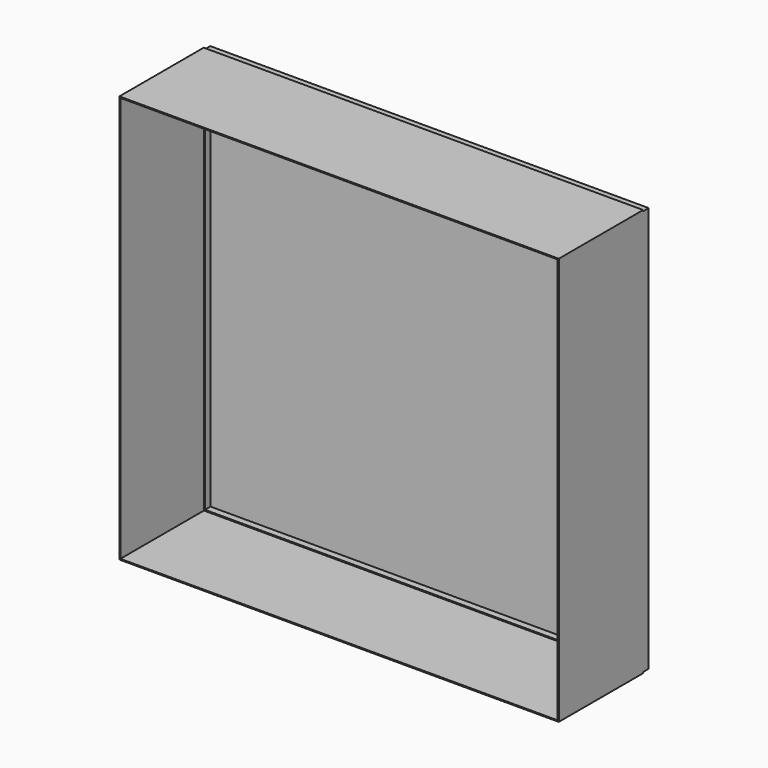
from build123d import *

# Parameters (mm, degrees)
F2_DEPTH = 6
F3_W     = 2494
F3_H     = 2308
F4_DEPTH = 45
F5_DEPTH = 600
F6_T     = -6


with BuildPart() as f2:
    # F0 (on Front) → F2 (new body)
    with BuildSketch(Plane.XZ):
        Polygon((-1250, 1160), (-1250, 677.0832676902), (-1250, -677.0832676902), (-1250, -1160), (1250, -1160), (1250, -677.0832676902), (1250, 677.0832676902), (1250, 1160), align=None)
    extrude(amount=F2_DEPTH)

    # F3 (on face) → F4 (join)
    with BuildSketch(Plane.XZ.offset(6)):
        with Locations((3, 0)):
            Rectangle(F3_W, F3_H)
    extrude(amount=-F4_DEPTH)

    # F0 (on Front) → F5 (join)
    with BuildSketch(Plane.XZ):
        Polygon((-1250, 1160), (-1250, 677.0832676902), (-1250, -677.0832676902), (-1250, -1160), (1250, -1160), (1250, -677.0832676902), (1250, 677.0832676902), (1250, 1160), align=None)
    extrude(amount=F5_DEPTH)

    # F6
    f6_openings = [f2.faces().sort_by_distance(p)[0] for p in [
        (0, -600, 0),
    ]]
    offset(amount=F6_T, openings=f6_openings, kind=Kind.INTERSECTION)


solid = f2.part
